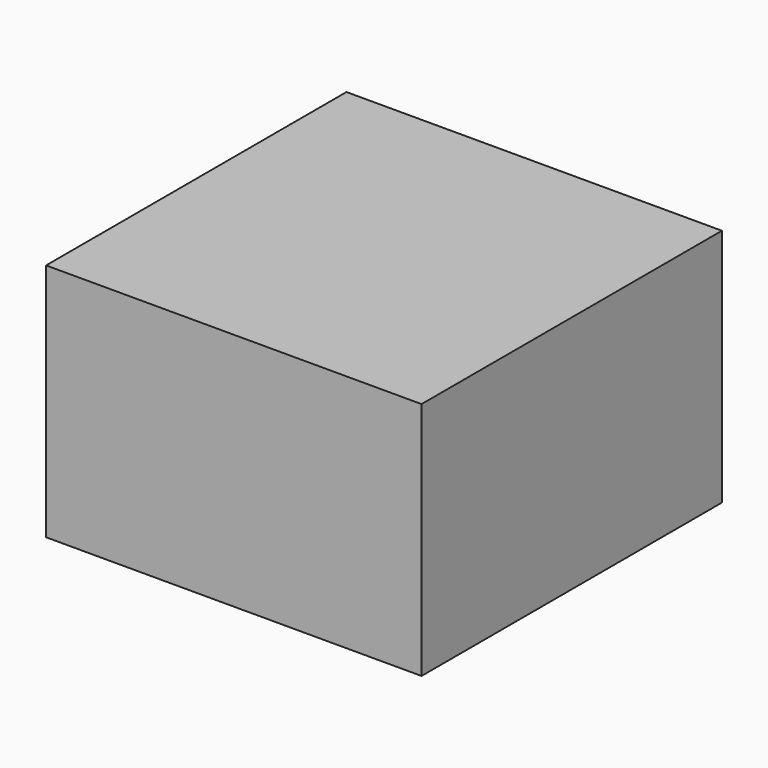
from build123d import *

# Parameters (mm, degrees)
BOX001_W     = 36
BOX001_H     = 36
BOX001_DEPTH = 23.5
BOX_W        = 40
BOX_H        = 40
BOX_DEPTH    = 25.5


with BuildPart() as cube001:
    # Box001 → Box001 (new body)
    with BuildSketch(Plane(origin=(-18, 2, 0), x_dir=(1, 0, 0), z_dir=(0, 0, 1))):
        with Locations((18, 18)):
            Rectangle(BOX001_W, BOX001_H)
    extrude(amount=BOX001_DEPTH)


with BuildPart() as cut:
    # Box → Box (new body)
    with BuildSketch(Plane(origin=(-20, 0, 0), x_dir=(1, 0, 0), z_dir=(0, 0, 1))):
        with Locations((20, 20)):
            Rectangle(BOX_W, BOX_H)
    extrude(amount=BOX_DEPTH)

    # Cut: cut Cube001
    add(cube001.part, mode=Mode.SUBTRACT)


with BuildPart() as cut_1:
    # Cut placement: moved
    add(cut.part.moved(Location((0, 0, 0.3))))


solid = cut_1.part
